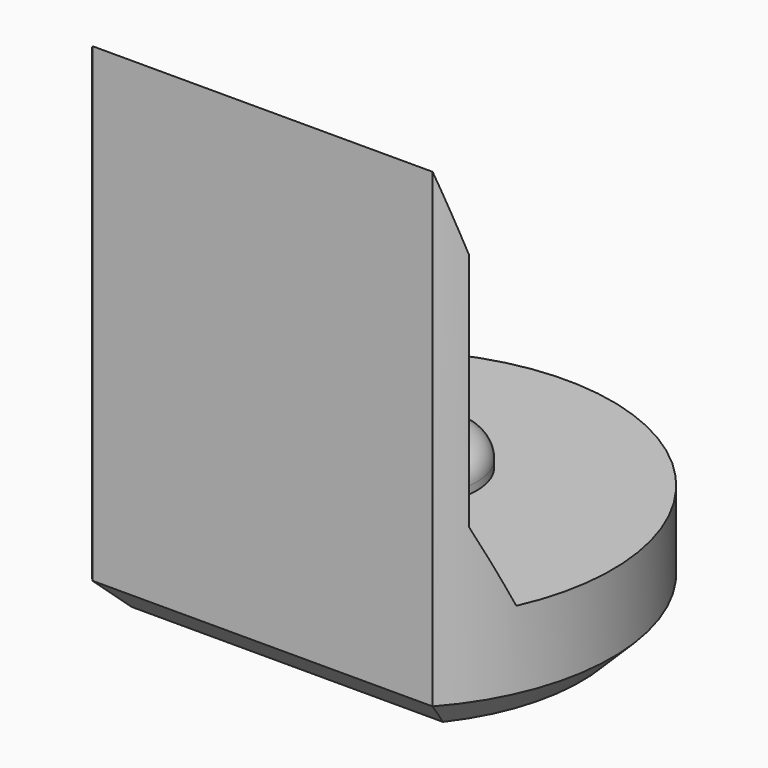
from build123d import *

# Parameters (mm, degrees)
PAD008_DEPTH         = 6.5
POCKET007_DEPTH      = 2.951
POCKET007_DEPTH_BACK = 2.951
SKETCH023_R          = 0.8
PAD009_DEPTH         = 0.4
FILLET001_R          = 0.3
CHAMFER007_SIZE      = 0.4


with BuildPart() as part:
    # Sketch022 → Pad008 (new body)
    with BuildSketch(Plane.XY):
        with BuildLine():
            ThreePointArc((2.2, -1.9653244007), (0, 2.95), (-2.2, -1.9653244007))
            Line((-2.2, -1.9653244007), (2.2, -1.9653244007))
        make_face()
    extrude(amount=PAD008_DEPTH)

    # Sketch024 → Pocket007 (cut, two sides)
    with BuildSketch(Plane.YZ) as pocket007_sk:
        Polygon((-1.97, 6.5), (-1.67, 5.5), (-1.67, 2.4), (-1.22, 1.4), (4, 1.4), (4, 6.5), align=None)
    extrude(amount=-POCKET007_DEPTH, mode=Mode.SUBTRACT)
    extrude(pocket007_sk.sketch, amount=POCKET007_DEPTH_BACK, mode=Mode.SUBTRACT)

    # Sketch023 (on Face7 of Pocket007) → Pad009 (join)
    with BuildSketch(Plane.XY.offset(1.4)):
        with Locations((0, 0.5)):
            Circle(SKETCH023_R)
    extrude(amount=PAD009_DEPTH)

    # Fillet001
    fillet001_edges = [part.edges().sort_by_distance(p)[0] for p in [
        (-0.8, 0.5, 1.8),
    ]]
    fillet(fillet001_edges, radius=FILLET001_R)

    # Chamfer007
    chamfer007_edges = [part.edges().sort_by_distance(p)[0] for p in [
        (0, 2.95, 0),
        (0, -1.965324, 0),
    ]]
    chamfer(chamfer007_edges, length=CHAMFER007_SIZE)


with BuildPart() as part_1:
    # Body094 placement: moved
    add(part.part.moved(Location((0, 84, 0))))


solid = part_1.part
